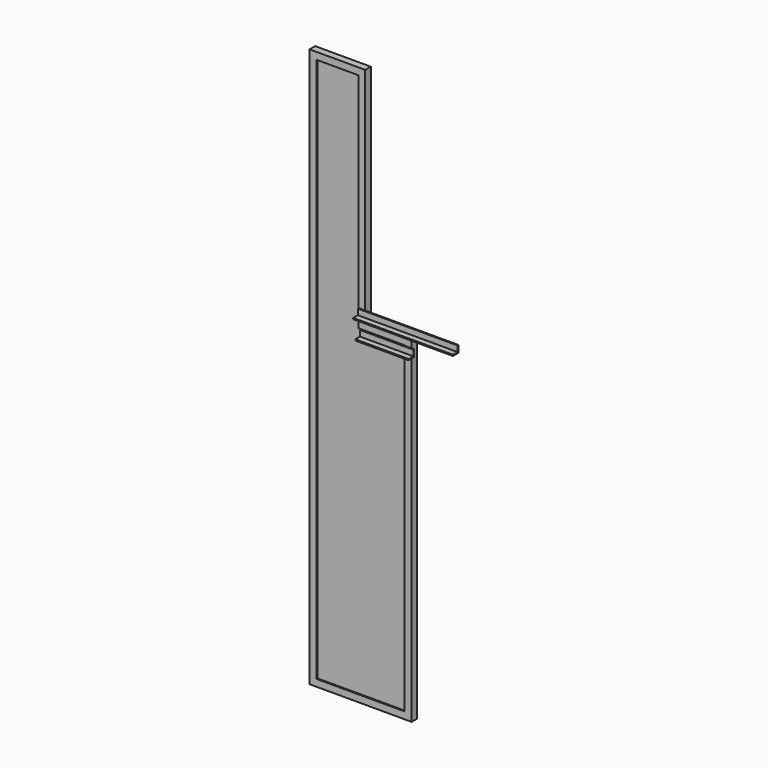
from build123d import *

# Parameters (mm, degrees)
F1_DEPTH = 3.175
F3_DEPTH = 15.875
F5_DEPTH = 273.05
F7_DEPTH = 146.05
F9_DEPTH = 1.5875


with BuildPart() as f1:
    # F0 (on Front) → F1 (new body)
    with BuildSketch(Plane.XZ):
        Polygon((0, 0), (0, 609.6), (-152.4, 609.6), (-152.4, -920.75), (127, -920.75), (127, 0), align=None)
        Polygon((-133.35, 590.55), (-19.05, 590.55), (-19.05, -19.05), (107.95, -19.05), (107.95, -901.7), (-133.35, -901.7), align=None, mode=Mode.SUBTRACT)
    extrude(amount=F1_DEPTH)

    # F2 (on face) → F3 (join)
    with BuildSketch(Plane(origin=(0, 0, 0), x_dir=(-1, 0, 0), z_dir=(0, 1, 0))):
        Polygon((0, 0), (-127, 0), (-127, -920.75), (152.4, -920.75), (152.4, 609.6), (0, 609.6), align=None)
        Polygon((-123.825, -917.575), (-123.825, -3.175), (3.175, -3.175), (3.175, 606.425), (149.225, 606.425), (149.225, -917.575), align=None, mode=Mode.SUBTRACT)
    extrude(amount=F3_DEPTH)


with BuildPart() as f5:
    # F4 (on Right) → F5 (new body)
    with BuildSketch(Plane.YZ):
        Polygon((-25.4, 25.4), (-25.4, 44.45), (-28.575, 44.45), (-28.575, 28.575), (-44.45, 28.575), (-44.45, 25.4), align=None)
    extrude(amount=F5_DEPTH)


with BuildPart() as f7:
    # F6 (on Right) → F7 (new body)
    with BuildSketch(Plane.YZ):
        Polygon((-17.96168, -29.175504), (-17.96168, -10.125504), (-21.13668, -10.125504), (-21.13668, -26.000504), (-37.01168, -26.000504), (-37.01168, -29.175504), align=None)
    extrude(amount=F7_DEPTH)


with BuildPart() as f9:
    # F8 (on face) → F9 (new body)
    with BuildSketch(Plane(origin=(0, 0, 0), x_dir=(-1, 0, 0), z_dir=(0, 1, 0))):
        Polygon((7.9375, 601.6625), (7.9375, -7.9375), (-119.0625, -7.9375), (-119.0625, -912.8125), (144.4625, -912.8125), (144.4625, 601.6625), align=None)
        Polygon((19.05, -19.05), (19.05, 590.55), (133.35, 590.55), (133.35, -901.7), (-107.95, -901.7), (-107.95, -19.05), align=None, mode=Mode.SUBTRACT)
        Polygon((133.35, 590.55), (19.05, 590.55), (19.05, -19.05), (-107.95, -19.05), (-107.95, -901.7), (133.35, -901.7), align=None)
    extrude(amount=F9_DEPTH)


solid = Compound([f1.part, f5.part, f7.part, f9.part])
